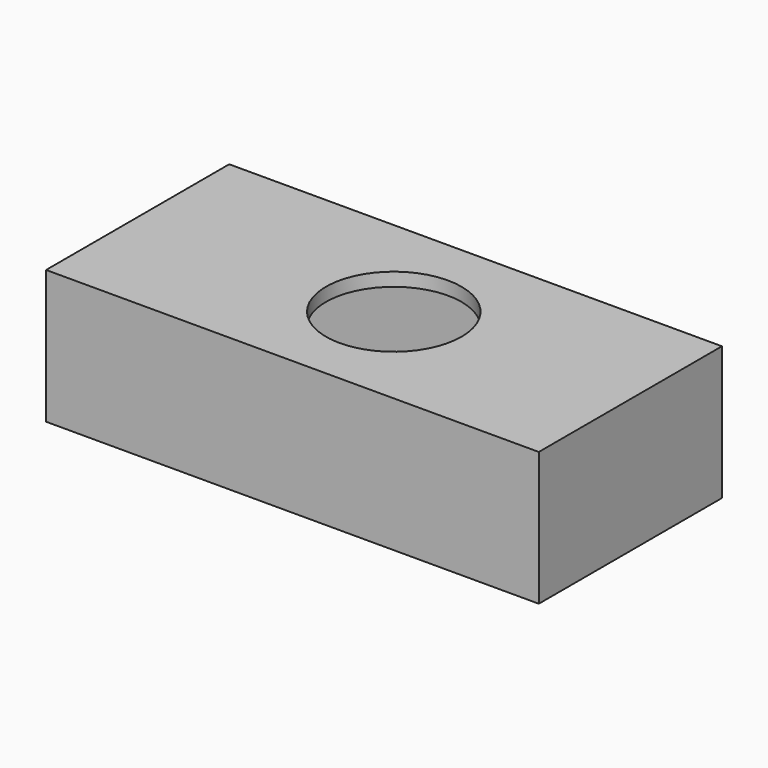
from build123d import *

# Parameters (mm, degrees)
F0_W     = 92.177428
F0_H     = 42.82258
F1_DEPTH = 25
F2_T     = -2.5
F3_R     = 12.678487
F4_DEPTH = 73.8


with BuildPart() as f1:
    # F0 (on Top) → F1 (new body)
    with BuildSketch(Plane.XY):
        Rectangle(F0_W, F0_H)
    extrude(amount=F1_DEPTH)

    # F2
    f2_openings = [f1.faces().sort_by_distance(p)[0] for p in [
        (0, 0, 0),
    ]]
    offset(amount=F2_T, openings=f2_openings)

    # F3 (on face) → F4 (cut)
    with BuildSketch(Plane(origin=(0, 0, 22.5), x_dir=(1, 0, 0), z_dir=(0, 0, -1))):
        with Locations((1.825314, 0)):
            Circle(F3_R)
    extrude(amount=-F4_DEPTH, mode=Mode.SUBTRACT)


solid = f1.part
